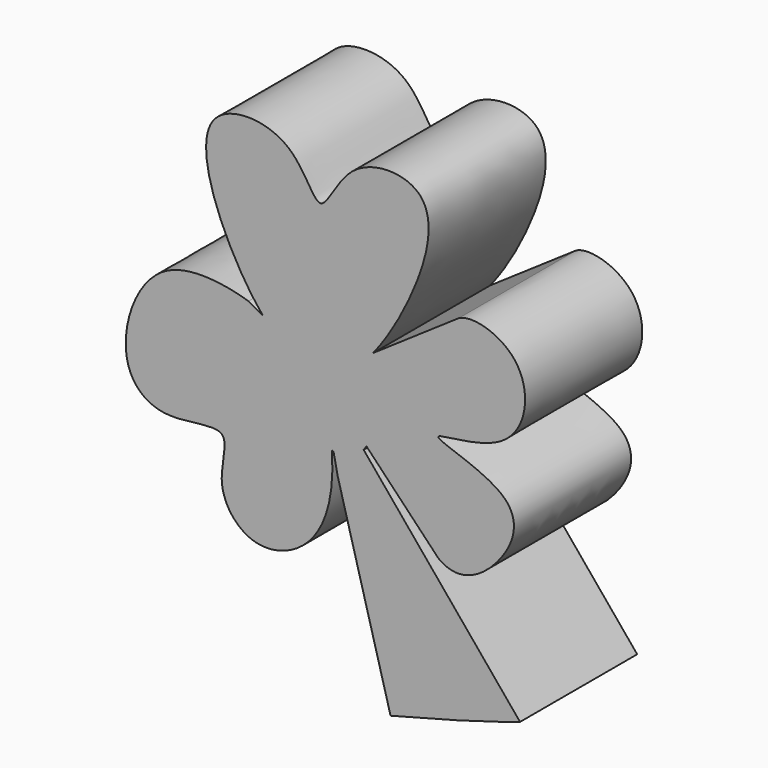
from build123d import *

# Parameters (mm, degrees)
F1_DEPTH = 2.54


with BuildPart() as f1:
    # F0 (on Front) → F1 (new body)
    with BuildSketch(Plane.XZ):
        with BuildLine():
            add(Edge.make_bspline(
                [(-9.0718287975, -3.2990127802), (-8.9579534551, -3.7082776389), (-8.8937965755, -4.0724509808), (-8.8719579874, -4.3933481054)],
                knots=[0, 0, 0, 0, 0.0556405856, 0.0556405856, 0.0556405856, 0.0556405856], degree=3))
            add(Edge.make_bspline(
                [(-9.0718287975, -3.2990127802), (-9.4147093571, -3.3279724451), (-9.757045902, -3.0941643672), (-10.0651336564, -2.7305816217)],
                knots=[0, 0, 0, 0, 0.0921970373, 0.0921970373, 0.0921970373, 0.0921970373], degree=3))
            Line((-10.0651336564, -2.7305816217), (-10.3186629745, -2.5854962909))
            add(Edge.make_bspline(
                [(-8.8719579874, -4.3933481054), (-8.8215844032, -5.1335396511), (-9.1481926562, -6.0864355589), (-10.2972291303, -6.413773906), (-10.956740756, -5.5655864405), (-10.5062609412, -4.5043028568), (-11.839250047, -4.9655155574), (-12.7118917097, -4.199478497), (-12.0240310939, -2.1526731677), (-10.5734566265, -2.5026830305), (-10.3186629745, -2.5854962909)],
                knots=[0.0556405856, 0.0556405856, 0.0556405856, 0.0556405856, 0.1839829356, 0.2954674734, 0.4019664234, 0.4984201622, 0.6091767965, 0.7185032659, 0.8652803224, 1, 1, 1, 1], degree=3))
        make_face()
        with BuildLine():
            add(Edge.make_bspline(
                [(-9.0718287975, -3.2990127802), (-9.4147093571, -3.3279724451), (-9.757045902, -3.0941643672), (-10.0651336564, -2.7305816217)],
                knots=[0, 0, 0, 0, 0.0921970373, 0.0921970373, 0.0921970373, 0.0921970373], degree=3))
            add(Edge.make_bspline(
                [(-8.1588712512, -2.6750848148), (-8.4413478159, -3.0240134659), (-8.7568178931, -3.2724069841), (-9.0718287975, -3.2990127802)],
                knots=[0.9152968249, 0.9152968249, 0.9152968249, 0.9152968249, 1, 1, 1, 1], degree=3))
            add(Edge.make_bspline(
                [(-10.0651336564, -2.7305816217), (-10.237655114, -2.5269843533), (-10.8619655212, -1.5842749889), (-11.4566535957, 0.3139004717), (-9.4884260384, 0.2808893612), (-9.0759657665, -1.1279547701), (-8.6444089297, 0.2717163224), (-6.9022459178, 0.252485392), (-7.3186224098, -1.3652204275), (-7.931963137, -2.3947969888), (-8.1588712512, -2.6750848148)],
                knots=[0.0921970373, 0.0921970373, 0.0921970373, 0.0921970373, 0.1438250784, 0.2914276355, 0.4070943123, 0.5044829207, 0.6018815627, 0.712338676, 0.8472563567, 0.9152968249, 0.9152968249, 0.9152968249, 0.9152968249], degree=3))
        make_face()
        with BuildLine():
            add(Edge.make_bspline(
                [(-8.1588712512, -2.6750848148), (-8.4413478159, -3.0240134659), (-8.7568178931, -3.2724069841), (-9.0718287975, -3.2990127802)],
                knots=[0.9152968249, 0.9152968249, 0.9152968249, 0.9152968249, 1, 1, 1, 1], degree=3))
            add(Edge.make_bspline(
                [(-9.0718287975, -3.2990127802), (-8.9579534551, -3.7082776389), (-8.8937965755, -4.0724509808), (-8.8719579874, -4.3933481054)],
                knots=[0, 0, 0, 0, 0.0556405856, 0.0556405856, 0.0556405856, 0.0556405856], degree=3))
            add(Edge.make_bspline(
                [(-8.8719579874, -4.3933481054), (-8.8624576483, -4.3965065297), (-8.8530538935, -4.3994150071), (-8.8437441416, -4.4020744949)],
                knots=[0, 0, 0, 0, 0.0246352921, 0.0246352921, 0.0246352921, 0.0246352921], degree=3))
            add(Edge.make_bspline(
                [(-8.8437441416, -4.4020744949), (-8.6306489342, -4.4629487391), (-8.4668044001, -4.3933705237), (-8.3212534711, -4.2048202604)],
                knots=[0.0246352921, 0.0246352921, 0.0246352921, 0.0246352921, 0.5885238592, 0.5885238592, 0.5885238592, 0.5885238592], degree=3))
            add(Edge.make_bspline(
                [(-8.3212534711, -4.2048202604), (-8.3046559906, -4.1833194748), (-8.2882963878, -4.1602716573), (-8.2721287597, -4.1356938308)],
                knots=[0.5885238592, 0.5885238592, 0.5885238592, 0.5885238592, 0.6528252658, 0.6528252658, 0.6528252658, 0.6528252658], degree=3))
            Line((-8.2721287597, -4.1356938308), (-7.0259191038, -5.439532714))
            add(Edge.make_bspline(
                [(-6.6660924419, -1.6548988827), (-6.4215408638, -1.5324817505), (-5.3552370251, -1.8372645845), (-5.54221156, -3.5702748101), (-7.7848760718, -3.4922459734), (-5.5559212452, -3.9860674972), (-5.7491027301, -5.089985979), (-6.6220261125, -5.7536719591), (-7.0259191038, -5.439532714)],
                knots=[0, 0, 0, 0, 0.1603989525, 0.3372035628, 0.5061197778, 0.680697128, 0.8289562832, 1, 1, 1, 1], degree=3))
            Line((-6.6660924419, -1.6548988827), (-8.1588712512, -2.6750848148))
        make_face()
        with BuildLine():
            add(Edge.make_bspline(
                [(-8.8437441416, -4.4020744949), (-8.6306489342, -4.4629487391), (-8.4668044001, -4.3933705237), (-8.3212534711, -4.2048202604)],
                knots=[0.0246352921, 0.0246352921, 0.0246352921, 0.0246352921, 0.5885238592, 0.5885238592, 0.5885238592, 0.5885238592], degree=3))
            Line((-8.8437441416, -4.4020744949), (-8.7696909885, -4.7602099324))
            Line((-8.7696909885, -4.7602099324), (-7.8547075371, -8.1135034519))
            Line((-7.8547075371, -8.1135034519), (-6.6753053557, -7.8014251692))
            Line((-6.6753053557, -7.8014251692), (-5.9242489809, -7.5800526479))
            Line((-5.9242489809, -7.5800526479), (-5.6089628457, -7.478060201))
            Line((-5.6089628457, -7.478060201), (-8.3212534711, -4.2048202604))
        make_face()
    extrude(amount=F1_DEPTH)


solid = f1.part
